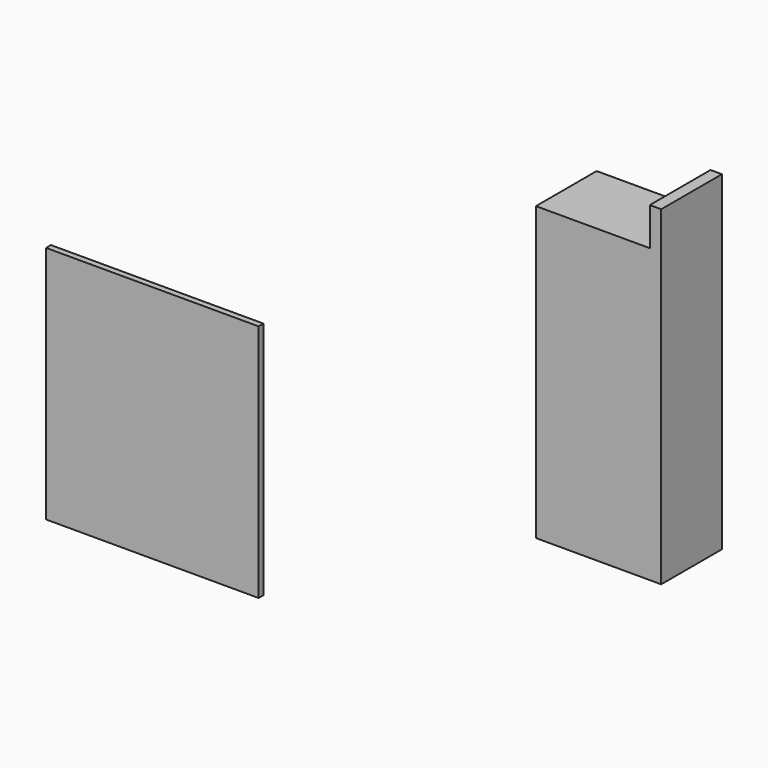
from build123d import *

# Parameters (mm, degrees)
F0_W     = 56
F0_H     = 63
F1_DEPTH = 1.6
F2_W     = 33
F2_H     = 20
F3_DEPTH = 77
F4_W     = 3
F4_H     = 20
F5_DEPTH = 10


with BuildPart() as f1:
    # F0 (on Front) → F1 (new body)
    with BuildSketch(Plane.XZ):
        with Locations((-99.781469, -5.092814)):
            Rectangle(F0_W, F0_H)
    extrude(amount=F1_DEPTH)


with BuildPart() as f3:
    # F2 (on Top) → F3 (new body)
    with BuildSketch(Plane.XY):
        with Locations((16.5, 10)):
            Rectangle(F2_W, F2_H)
    extrude(amount=F3_DEPTH)

    # F4 (on face) → F5 (join)
    with BuildSketch(Plane.XY.offset(77)):
        with Locations((31.5, 10)):
            Rectangle(F4_W, F4_H)
    extrude(amount=F5_DEPTH)


solid = Compound([f1.part, f3.part])
